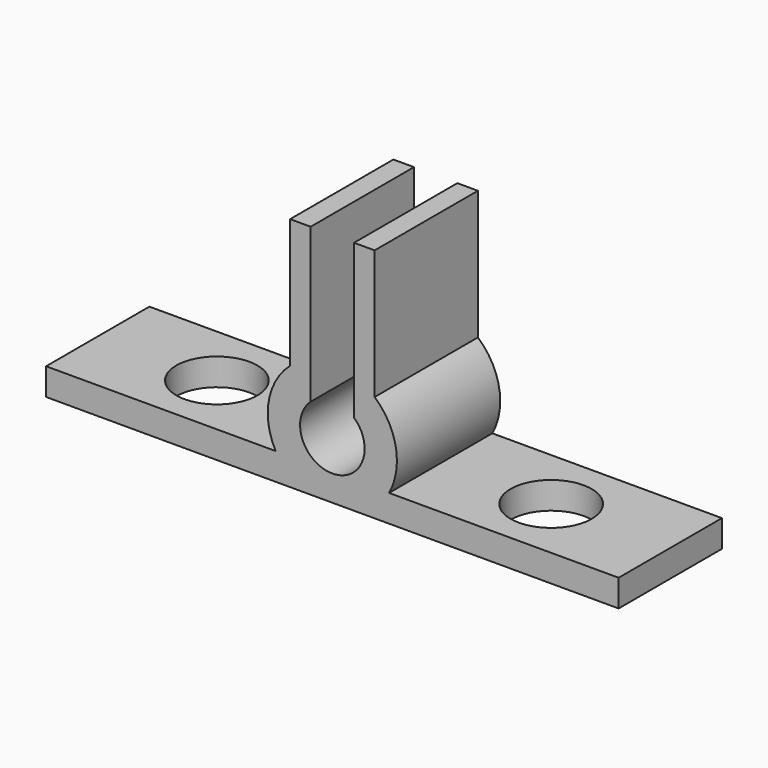
from build123d import *

# Parameters (mm, degrees)
F1_DEPTH = 6.35
F4_D     = 3.9878


with BuildPart() as f1:
    # F0 (on Front) → F1 (new body)
    with BuildSketch(Plane.XZ):
        with BuildLine():
            ThreePointArc((-2.078402, 2.400181), (-1.600052, 2.742345), (-1.0668, 2.990412))
            Line((-1.0668, 2.990412), (-1.0668, 4.192946))
            Line((-1.0668, 4.192946), (-1.0668, 8.750181))
            Line((-1.0668, 8.750181), (-2.078402, 8.750181))
            Line((-2.078402, 8.750181), (-2.078402, 4.192946))
            Line((-2.078402, 4.192946), (-2.078402, 2.400181))
        make_face()
        with BuildLine():
            ThreePointArc((1.0668, 1.175625), (0, -1.5875), (-1.0668, 1.175625))
            Line((-1.0668, 1.175625), (-1.0668, 2.990412))
            ThreePointArc((-1.0668, 2.990412), (-1.600052, 2.742345), (-2.078402, 2.400181))
            ThreePointArc((-2.078402, 2.400181), (-3.12438, 0.564687), (-2.787067, -1.520817))
            ThreePointArc((-2.787067, -1.520817), (-2.194353, -2.294655), (-1.394812, -2.852214))
            Line((-1.394812, -2.852214), (1.394812, -2.852214))
            ThreePointArc((1.394812, -2.852214), (2.194353, -2.294655), (2.787067, -1.520817))
            ThreePointArc((2.787067, -1.520817), (3.12438, 0.564687), (2.078402, 2.400181))
            ThreePointArc((2.078402, 2.400181), (1.600052, 2.742345), (1.0668, 2.990412))
            Line((1.0668, 2.990412), (1.0668, 1.175625))
        make_face()
        with BuildLine():
            Line((1.0668, 4.192946), (1.0668, 2.990412))
            ThreePointArc((1.0668, 2.990412), (1.600052, 2.742345), (2.078402, 2.400181))
            Line((2.078402, 2.400181), (2.078402, 4.192946))
            Line((2.078402, 4.192946), (2.078402, 8.750181))
            Line((2.078402, 8.750181), (1.0668, 8.750181))
            Line((1.0668, 8.750181), (1.0668, 4.192946))
        make_face()
        with BuildLine():
            Line((14.078129, -1.520817), (2.787067, -1.520817))
            ThreePointArc((2.787067, -1.520817), (2.194353, -2.294655), (1.394812, -2.852214))
            Line((1.394812, -2.852214), (14.078129, -2.852214))
            Line((14.078129, -2.852214), (14.078129, -1.520817))
        make_face()
        with BuildLine():
            ThreePointArc((-1.394812, -2.852214), (-2.194353, -2.294655), (-2.787067, -1.520817))
            Line((-2.787067, -1.520817), (-14.078129, -1.520817))
            Line((-14.078129, -1.520817), (-14.078129, -2.852214))
            Line((-14.078129, -2.852214), (-1.394812, -2.852214))
        make_face()
    extrude(amount=F1_DEPTH)

    # F4 (through all)
    with Locations(Plane(origin=(0, 0, -2.852214), x_dir=(1, 0, 0), z_dir=(0, 0, -1))):
        with Locations((-8.219072, 3.175), (8.219072, 3.175)):
            Hole(F4_D / 2)


solid = f1.part
